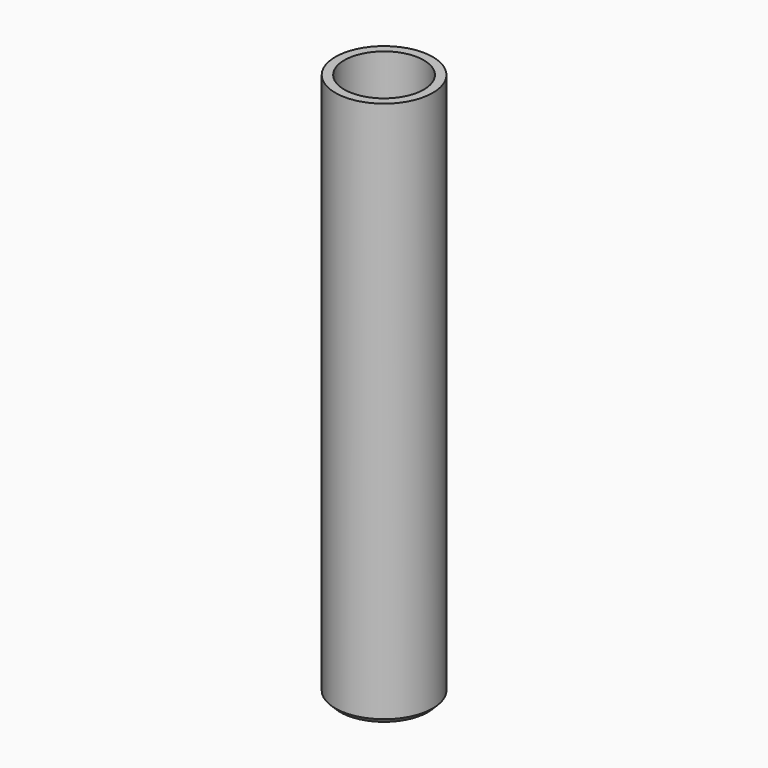
from build123d import *

# Parameters (mm, degrees)
CYLINDER013_R     = 8
CYLINDER013_DEPTH = 110
CYLINDER015_R     = 9.8
CYLINDER015_DEPTH = 110
CHAMFER_SIZE      = 1


with BuildPart() as negative:
    # Cylinder013 → Cylinder013 (new body)
    with BuildSketch(Plane.XY.offset(2)):
        Circle(CYLINDER013_R)
    extrude(amount=CYLINDER013_DEPTH)


with BuildPart() as central_tube:
    # Cylinder015 → Cylinder015 (new body)
    with BuildSketch(Plane.XY):
        Circle(CYLINDER015_R)
    extrude(amount=CYLINDER015_DEPTH)

    # Cut: cut negative
    add(negative.part, mode=Mode.SUBTRACT)

    # Chamfer
    chamfer_edges = [central_tube.edges().sort_by_distance(p)[0] for p in [
        (-9.8, 0, 0),
    ]]
    chamfer(chamfer_edges, length=CHAMFER_SIZE)


solid = central_tube.part
